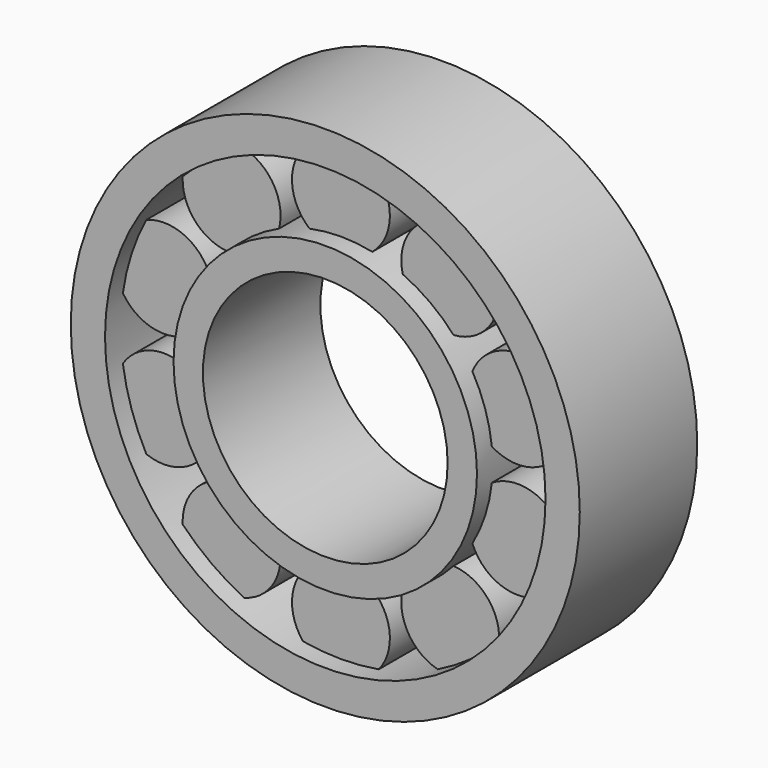
from build123d import *

# Parameters (mm, degrees)
F0_R     = 26
F0_R_2   = 22.5
F0_R_3   = 15.5
F0_R_4   = 12.5
F1_DEPTH = 15
F3_R     = 5
F4_DEPTH = 11


with BuildPart() as f1:
    # F0 (on Front) → F1 (new body)
    with BuildSketch(Plane.XZ):
        Circle(F0_R)
        Circle(F0_R_2, mode=Mode.SUBTRACT)
        Circle(F0_R_3)
        Circle(F0_R_4, mode=Mode.SUBTRACT)
    extrude(amount=F1_DEPTH)

    # F3 (on offset) → F4 (join)
    with BuildSketch(Plane.XZ.offset(2)):
        with Locations((0, 19)):
            Circle(F3_R)
        with Locations((11.16792, 15.371323)):
            Circle(F3_R)
        with Locations((18.070074, 5.871323)):
            Circle(F3_R)
        with Locations((18.070074, -5.871323)):
            Circle(F3_R)
        with Locations((11.16792, -15.371323)):
            Circle(F3_R)
        with Locations((0, -19)):
            Circle(F3_R)
        with Locations((-11.16792, -15.371323)):
            Circle(F3_R)
        with Locations((-18.070074, -5.871323)):
            Circle(F3_R)
        with Locations((-18.070074, 5.871323)):
            Circle(F3_R)
        with Locations((-11.16792, 15.371323)):
            Circle(F3_R)
    extrude(amount=F4_DEPTH)


solid = f1.part
